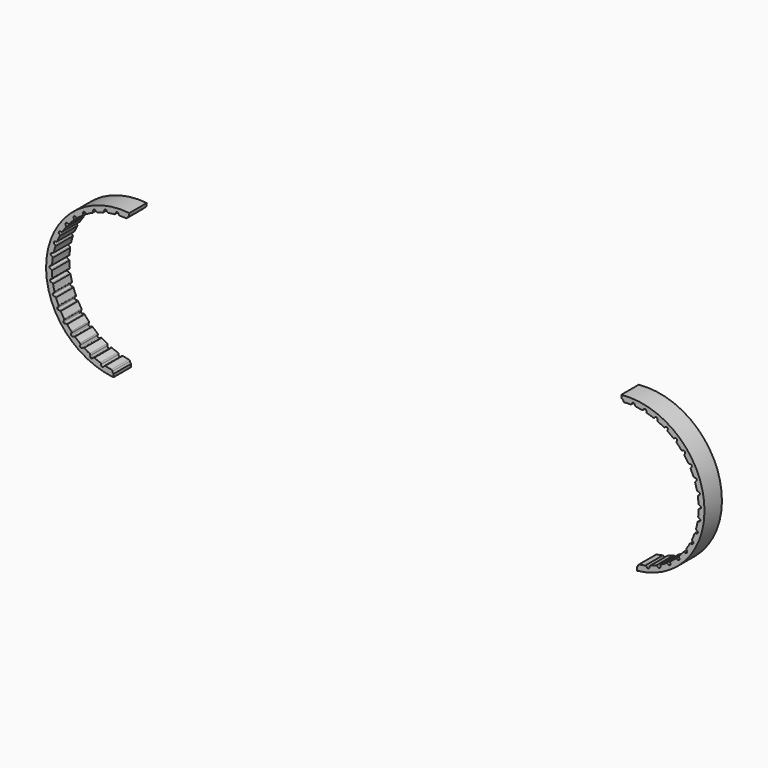
from build123d import *

# Parameters (mm, degrees)
F1_DEPTH = 10


with BuildPart() as f1:
    # F0 (on Front) → F1 (new body)
    with BuildSketch(Plane.XZ):
        with BuildLine():
            ThreePointArc((123.8666904179, -46.6791875117), (122.4197753697, -46.9923041887), (120.9598662199, -47.2378046661))
            ThreePointArc((120.9598662199, -47.2378046661), (120.6772064032, -47.4303391955), (120.5094187302, -47.72835499))
            add(Edge.make_bspline(
                [(119.8886645109, -48.5490103674), (120.447134813, -48.4940550517), (120.5094187302, -47.72835499)],
                knots=[0, 0, 0, 1.3242255138, 1.3242255138, 1.3242255138], degree=2, weights=[1, 0.7886951024, 1]))
            Line((119.8886645109, -48.5490103674), (120.0503584849, -50.0721308867))
            ThreePointArc((120.0503584849, -50.0721308867), (150.7502410499, -12.0928725794), (112.7675707092, 18.602788431))
            Line((112.7675707092, 18.602788431), (112.9292645537, 17.0796691305))
            add(Edge.make_bspline(
                [(112.936897847, 17.0804773879), (112.9330783085, 17.0801015327), (112.9292645537, 17.0796691305)],
                knots=[0, 0, 0, 0.0106622897, 0.0106622897, 0.0106622897], degree=2, weights=[1, 0.9999857895, 1]))
            add(Edge.make_bspline(
                [(113.7347456512, 16.3994171185), (113.5187096042, 17.1377295796), (112.936897847, 17.0804773879)],
                knots=[4.9589597933, 4.9589597933, 4.9589597933, 6.2831853072, 6.2831853072, 6.2831853072], degree=2, weights=[1, 0.7886951024, 1]))
            ThreePointArc((113.7347456512, 16.3994171185), (113.9065411517, 16.1662009275), (114.1539001434, 16.0154792804))
            ThreePointArc((114.1539001434, 16.0154792804), (115.6326184675, 16.0861710645), (117.1130244098, 16.088030087))
            ThreePointArc((117.1130244098, 16.088030087), (117.4235192571, 16.2314144196), (117.6380703124, 16.4977487239))
            add(Edge.make_bspline(
                [(118.3854336888, 17.2050386451), (117.8255348461, 17.2427540388), (117.6380703124, 16.4977487239)],
                knots=[0, 0, 0, 1.3242255138, 1.3242255138, 1.3242255138], degree=2, weights=[1, 0.7886951024, 1]))
            add(Edge.make_bspline(
                [(119.0603010529, 16.4019457176), (118.968733693, 17.1657469238), (118.3854336888, 17.2050386451)],
                knots=[4.9589597933, 4.9589597933, 4.9589597933, 6.2831853072, 6.2831853072, 6.2831853072], degree=2, weights=[1, 0.7886951024, 1]))
            ThreePointArc((119.0603010529, 16.4019457176), (119.1913673634, 16.1436336815), (119.4105447331, 15.9542537293))
            ThreePointArc((119.4105447331, 15.9542537293), (120.8807307518, 15.780592333), (122.3412518717, 15.5387591913))
            ThreePointArc((122.3412518717, 15.5387591913), (122.6711122594, 15.6290821763), (122.9265743037, 15.8564700848))
            add(Edge.make_bspline(
                [(123.7801607126, 16.4311015246), (123.2341059101, 16.5604588501), (122.9265743037, 15.8564700848)],
                knots=[0, 0, 0, 1.3242255138, 1.3242255138, 1.3242255138], degree=2, weights=[1, 0.7886951024, 1]))
            add(Edge.make_bspline(
                [(124.3136390141, 15.5278822206), (124.3490380602, 16.2963376659), (123.7801607126, 16.4311015246)],
                knots=[4.9589597933, 4.9589597933, 4.9589597933, 6.2831853072, 6.2831853072, 6.2831853072], degree=2, weights=[1, 0.7886951024, 1]))
            ThreePointArc((124.3136390141, 15.5278822206), (124.4004009871, 15.2515204184), (124.5854181475, 15.0286479525))
            ThreePointArc((124.5854181475, 15.0286479525), (126.0069690188, 14.6153704058), (127.4077661075, 14.1364416777))
            ThreePointArc((127.4077661075, 14.1364416777), (127.7479943041, 14.1712395396), (128.0373989987, 14.3534785028))
            add(Edge.make_bspline(
                [(128.973924828, 14.7797770135), (128.4566090172, 14.9972477402), (128.0373989987, 14.3534785028)],
                knots=[0, 0, 0, 1.3242255138, 1.3242255138, 1.3242255138], degree=2, weights=[1, 0.7886951024, 1]))
            add(Edge.make_bspline(
                [(129.3514621695, 13.8010688011), (129.5128620279, 14.5532170243), (128.973924828, 14.7797770135)],
                knots=[4.9589597933, 4.9589597933, 4.9589597933, 6.2831853072, 6.2831853072, 6.2831853072], degree=2, weights=[1, 0.7886951024, 1]))
            ThreePointArc((129.3514621695, 13.8010688011), (129.3915531647, 13.5141956623), (129.53736333, 13.2639100626))
            ThreePointArc((129.53736333, 13.2639100626), (130.8715028518, 12.6222894998), (132.1743658161, 11.9193291124))
            ThreePointArc((132.1743658161, 11.9193291124), (132.5156812835, 11.8976526562), (132.8311344227, 12.0297716703))
            add(Edge.make_bspline(
                [(133.825053689, 12.2961089399), (133.3505878969, 12.5957610332), (132.8311344227, 12.0297716703)],
                knots=[0, 0, 0, 1.3242255138, 1.3242255138, 1.3242255138], degree=2, weights=[1, 0.7886951024, 1]))
            add(Edge.make_bspline(
                [(134.0363518361, 11.2686084278), (134.3193499395, 11.983932786), (133.825053689, 12.2961089399)],
                knots=[4.9589597933, 4.9589597933, 4.9589597933, 6.2831853072, 6.2831853072, 6.2831853072], degree=2, weights=[1, 0.7886951024, 1]))
            ThreePointArc((134.0363518361, 11.2686084278), (134.0286782756, 10.9790491037), (134.1313041246, 10.708177509))
            ThreePointArc((134.1313041246, 10.708177509), (135.3416404486, 9.8557156664), (136.5110305833, 8.9478985466))
            ThreePointArc((136.5110305833, 8.9478985466), (136.8441231251, 8.8703390495), (137.1770199697, 8.9487342523))
            add(Edge.make_bspline(
                [(138.2012211465, 9.0478452942), (137.7825475628, 9.4215050263), (137.1770199697, 8.9487342523)],
                knots=[0, 0, 0, 1.3242255138, 1.3242255138, 1.3242255138], degree=2, weights=[1, 0.7886951024, 1]))
            add(Edge.make_bspline(
                [(138.2405164364, 7.9995800179), (138.6373933341, 8.6585683273), (138.2012211465, 9.0478452942)],
                knots=[4.9589597933, 4.9589597933, 4.9589597933, 6.2831853072, 6.2831853072, 6.2831853072], degree=2, weights=[1, 0.7886951024, 1]))
            ThreePointArc((138.2405164364, 7.9995800179), (138.185287635, 7.7152329321), (138.241929802, 7.4311640134))
            ThreePointArc((138.241929802, 7.4311640134), (139.2954481083, 6.3911138279), (140.2994674989, 5.3032028602))
            ThreePointArc((140.2994674989, 5.3032028602), (140.615251219, 5.1718759432), (140.9565112108, 5.1944089178))
            add(Edge.make_bspline(
                [(141.9830567598, 5.1235902413), (141.6315957086, 5.5610651485), (140.9565112108, 5.1944089178)],
                knots=[0, 0, 0, 1.3242255138, 1.3242255138, 1.3242255138], degree=2, weights=[1, 0.7886951024, 1]))
            add(Edge.make_bspline(
                [(141.8492773195, 4.0831541449), (142.3492072445, 4.6678309223), (141.9830567598, 5.1235902413)],
                knots=[4.9589597933, 4.9589597933, 4.9589597933, 6.2831853072, 6.2831853072, 6.2831853072], degree=2, weights=[1, 0.7886951024, 1]))
            ThreePointArc((141.8492773195, 4.0831541449), (141.7479997749, 3.8117755447), (141.7571132093, 3.5222579614))
            ThreePointArc((141.7571132093, 3.5222579614), (142.6250762649, 2.3229892908), (143.4363378797, 1.0846598506))
            ThreePointArc((143.4363378797, 1.0846598506), (143.7261990213, 0.9031477695), (144.0665134774, 0.8692038752))
            add(Edge.make_bspline(
                [(145.067401912, 0.630387229), (144.7927403346, 1.1197441365), (144.0665134774, 0.8692038752)],
                knots=[0, 0, 0, 1.3242255138, 1.3242255138, 1.3242255138], degree=2, weights=[1, 0.7886951024, 1]))
            add(Edge.make_bspline(
                [(144.764196896, -0.3738393029), (145.353543063, 0.1205774841), (145.067401912, 0.6303872291)],
                knots=[4.9589597933, 4.9589597933, 4.9589597933, 6.2831853072, 6.2831853072, 6.2831853072], degree=2, weights=[1, 0.7886951024, 1]))
            ThreePointArc((144.764196896, -0.3738393029), (144.6196331955, -0.6248469168), (144.5809693065, -0.9119158796))
            ThreePointArc((144.5809693065, -0.9119158796), (145.2397013419, -2.2376901121), (145.8360760788, -3.5926596259))
            ThreePointArc((145.8360760788, -3.5926596259), (146.0921079856, -3.8194056947), (146.4221940147, -3.908900557))
            add(Edge.make_bspline(
                [(147.3701237077, -4.3092008771), (147.1797536558, -3.7813103503), (146.4221940147, -3.908900557)],
                knots=[0, 0, 0, 1.3242255138, 1.3242255138, 1.3242255138], degree=2, weights=[1, 0.7886951024, 1]))
            add(Edge.make_bspline(
                [(146.9057637582, -5.2498251628), (147.5684503402, -4.8591547671), (147.3701237077, -4.3092008771)],
                knots=[4.9589597933, 4.9589597933, 4.9589597933, 6.2831853072, 6.2831853072, 6.2831853072], degree=2, weights=[1, 0.7886951024, 1]))
            ThreePointArc((146.9057637582, -5.2498251628), (146.7218572229, -5.4736149569), (146.6364706606, -5.7504048062))
            ThreePointArc((146.6364706606, -5.7504048062), (147.0680031831, -7.1665209357), (147.4332234939, -8.6011704869))
            ThreePointArc((147.4332234939, -8.6011704869), (147.6484422829, -8.8669655016), (147.9592959986, -9.0095701454))
            add(Edge.make_bspline(
                [(148.8284098989, -9.5604349903), (148.7275241714, -9.0084103215), (147.9592959986, -9.0095701454)],
                knots=[0, 0, 0, 1.3242255138, 1.3242255138, 1.3242255138], degree=2, weights=[1, 0.7886951024, 1]))
            add(Edge.make_bspline(
                [(148.215561545, -10.4117992511), (148.9335121794, -10.1355317169), (148.8284098989, -9.5604349903)],
                knots=[4.9589597933, 4.9589597933, 4.9589597933, 6.2831853072, 6.2831853072, 6.2831853072], degree=2, weights=[1, 0.7886951024, 1]))
            ThreePointArc((148.215561545, -10.4117992511), (147.9973286656, -10.6022668233), (147.8675485529, -10.8612274536))
            ThreePointArc((147.8675485529, -10.8612274536), (148.0601104801, -12.3290575236), (148.1842141069, -13.8042536123))
            ThreePointArc((148.1842141069, -13.8042536123), (148.3527491706, -14.1018473778), (148.6358912939, -14.29367192))
            add(Edge.make_bspline(
                [(149.4024822399, -14.9800751328), (149.3938327364, -14.418974116), (148.6358912939, -14.29367192)],
                knots=[0, 0, 0, 1.3242255138, 1.3242255138, 1.3242255138], degree=2, weights=[1, 0.7886951024, 1]))
            add(Edge.make_bspline(
                [(148.6578623871, -15.7189563711), (149.4114932522, -15.5646275564), (149.4024822399, -14.9800751328)],
                knots=[4.9589597933, 4.9589597933, 4.9589597933, 6.2831853072, 6.2831853072, 6.2831853072], degree=2, weights=[1, 0.7886951024, 1]))
            ThreePointArc((148.6578623871, -15.7189563711), (148.4112559877, -15.8709062624), (148.2406223878, -16.1049739028))
            ThreePointArc((148.2406223878, -16.1049739028), (148.1889611323, -17.5844793353), (148.0685628515, -19.0599824577))
            ThreePointArc((148.0685628515, -19.0599824577), (148.1858169927, -19.3812573919), (148.4335241445, -19.6170693592))
            add(Edge.make_bspline(
                [(149.0766815336, -20.4202876495), (149.1605041901, -19.8654156578), (148.4335241445, -19.6170693592)],
                knots=[0, 0, 0, 1.3242255138, 1.3242255138, 1.3242255138], degree=2, weights=[1, 0.7886951024, 1]))
            add(Edge.make_bspline(
                [(148.2206014705, -21.0265311111), (148.9893554809, -20.9983507039), (149.0766815336, -20.4202876495)],
                knots=[4.9589597933, 4.9589597933, 4.9589597933, 6.2831853072, 6.2831853072, 6.2831853072], degree=2, weights=[1, 0.7886951024, 1]))
            ThreePointArc((148.2206014705, -21.0265311111), (147.9523483308, -21.1358185248), (147.7455156834, -21.3386084202))
            ThreePointArc((147.7455156834, -21.3386084202), (147.4510404296, -22.7894321638), (147.0894243926, -24.2249944411))
            ThreePointArc((147.0894243926, -24.2249944411), (147.152199224, -24.5611870013), (147.357714599, -24.8345540578))
            add(Edge.make_bspline(
                [(147.8598947742, -25.7326777246), (148.033903127, -25.1991702193), (147.357714599, -24.8345540578)],
                knots=[0, 0, 0, 1.3242255138, 1.3242255138, 1.3242255138], degree=2, weights=[1, 0.7886951024, 1]))
            add(Edge.make_bspline(
                [(146.9157061331, -26.1897466683), (147.6786136834, -26.2884833564), (147.8598947742, -25.7326777246)],
                knots=[4.9589597933, 4.9589597933, 4.9589597933, 6.2831853072, 6.2831853072, 6.2831853072], degree=2, weights=[1, 0.7886951024, 1]))
            ThreePointArc((146.9157061331, -26.1897466683), (146.6331234995, -26.2533905284), (146.3957336601, -26.4193710991))
            ThreePointArc((146.3957336601, -26.4193710991), (145.8664769253, -27.8019384641), (145.2735070748, -29.1584014996))
            ThreePointArc((145.2735070748, -29.1584014996), (145.2800902626, -29.5003412291), (145.4378079371, -29.8038066343))
            add(Edge.make_bspline(
                [(145.7853127323, -30.772337205), (146.0447602873, -30.2747468803), (145.4378079371, -29.8038066343)],
                knots=[0, 0, 0, 1.3242255138, 1.3242255138, 1.3242255138], degree=2, weights=[1, 0.7886951024, 1]))
            add(Edge.make_bspline(
                [(144.7787705181, -31.0677639815), (145.5150214791, -31.2907244856), (145.7853127323, -30.772337205)],
                knots=[4.9589597933, 4.9589597933, 4.9589597933, 6.2831853072, 6.2831853072, 6.2831853072], degree=2, weights=[1, 0.7886951024, 1]))
            ThreePointArc((144.7787705181, -31.0677639815), (144.4895665083, -31.0840282496), (144.2280948529, -31.2086719782))
            ThreePointArc((144.2280948529, -31.2086719782), (143.4784933811, -32.485270131), (142.6703443889, -33.7256331491))
            ThreePointArc((142.6703443889, -33.7256331491), (142.6205563609, -34.0639928235), (142.7261742079, -34.3892788321))
            add(Edge.make_bspline(
                [(142.9095245982, -35.4017973176), (143.2473343023, -34.9536971404), (142.7261742079, -34.3892788321)],
                knots=[0, 0, 0, 1.3242255138, 1.3242255138, 1.3242255138], degree=2, weights=[1, 0.7886951024, 1]))
            add(Edge.make_bspline(
                [(141.8680846586, -35.5275234546), (142.5575960233, -35.8686259933), (142.9095245982, -35.4017973176)],
                knots=[4.9589597933, 4.9589597933, 4.9589597933, 6.2831853072, 6.2831853072, 6.2831853072], degree=2, weights=[1, 0.7886951024, 1]))
            ThreePointArc((141.8680846586, -35.5275234546), (141.580148004, -35.4959644838), (141.3017267977, -35.5758714145))
            ThreePointArc((141.3017267977, -35.5758714145), (140.352227763, -36.7116780852), (139.350943827, -37.8021072162))
            ThreePointArc((139.350943827, -37.8021072162), (139.2461426709, -38.1276572656), (139.2967797108, -38.4658909233))
            add(Edge.make_bspline(
                [(139.3109743754, -39.4947784587), (139.7179316605, -39.1083914337), (139.2967797108, -38.4658909233)],
                knots=[0, 0, 0, 1.3242255138, 1.3242255138, 1.3242255138], degree=2, weights=[1, 0.7886951024, 1]))
            add(Edge.make_bspline(
                [(138.2630444772, -39.4473744749), (138.887008173, -39.8973146601), (139.3109743754, -39.4947784587)],
                knots=[4.9589597933, 4.9589597933, 4.9589597933, 6.2831853072, 6.2831853072, 6.2831853072], degree=2, weights=[1, 0.7886951024, 1]))
            ThreePointArc((138.2630444772, -39.4473744749), (137.9842293391, -39.3688531116), (137.6964531867, -39.4018435915))
            ThreePointArc((137.6964531867, -39.4018435915), (136.5729564477, -40.3658769352), (135.4058499834, -41.2766281149))
            ThreePointArc((135.4058499834, -41.2766281149), (135.2488944014, -41.5804883825), (135.2431693878, -41.9224435568))
            add(Edge.make_bspline(
                [(135.0878211334, -42.9396347723), (135.5528252657, -42.6255005303), (135.2431693878, -41.9224435568)],
                knots=[0, 0, 0, 1.3242255138, 1.3242255138, 1.3242255138], degree=2, weights=[1, 0.7886951024, 1]))
            add(Edge.make_bspline(
                [(134.0619860724, -42.7203937248), (134.6033819962, -43.2668983612), (135.0878211334, -42.9396347723)],
                knots=[4.9589597933, 4.9589597933, 4.9589597933, 6.2831853072, 6.2831853072, 6.2831853072], degree=2, weights=[1, 0.7886951024, 1]))
            ThreePointArc((134.0619860724, -42.7203937248), (133.799897801, -42.5970518272), (133.5106164857, -42.582225962))
            ThreePointArc((133.5106164857, -42.582225962), (132.2437681046, -43.3481896619), (130.9426747341, -44.0544199723))
            ThreePointArc((130.9426747341, -44.0544199723), (130.7378460654, -44.3283019423), (130.6759151617, -44.6646509874))
            add(Edge.make_bspline(
                [(130.3552614836, -45.6423995583), (130.8656283624, -45.4090868625), (130.6759151617, -44.6646509874)],
                knots=[0, 0, 0, 1.3242255138, 1.3242255138, 1.3242255138], degree=2, weights=[1, 0.7886951024, 1]))
            add(Edge.make_bspline(
                [(129.3795033662, -45.2573017714), (129.8235636485, -45.8854636371), (130.3552614836, -45.6423995583)],
                knots=[4.9589597933, 4.9589597933, 4.9589597933, 6.2831853072, 6.2831853072, 6.2831853072], degree=2, weights=[1, 0.7886951024, 1]))
            ThreePointArc((129.3795033662, -45.2573017714), (129.1412910463, -45.0925037848), (128.8583954082, -45.0302659855))
            ThreePointArc((128.8583954082, -45.0302659855), (127.4827517065, -45.5772665487), (126.0831618651, -46.0597118679))
            ThreePointArc((126.0831618651, -46.0597118679), (125.8360473019, -46.296144754), (125.7195998217, -46.6177129448))
            add(Edge.make_bspline(
                [(125.2423873165, -47.5293484388), (125.7841954638, -47.3832214514), (125.7195998217, -46.6177129448)],
                knots=[0, 0, 0, 1.3242255138, 1.3242255138, 1.3242255138], degree=2, weights=[1, 0.7886951024, 1]))
            add(Edge.make_bspline(
                [(124.3433222804, -46.9888983762), (124.6779341143, -47.6815828531), (125.2423873165, -47.5293484388)],
                knots=[4.9589597933, 4.9589597933, 4.9589597933, 6.2831853072, 6.2831853072, 6.2831853072], degree=2, weights=[1, 0.7886951024, 1]))
            ThreePointArc((124.3433222804, -46.9888983762), (124.1354837232, -46.7871395602), (123.8666904179, -46.6791875117))
        make_face()
        with BuildLine():
            ThreePointArc((123.8666904179, -46.6791875117), (122.4197753697, -46.9923041887), (120.9598662199, -47.2378046661))
            ThreePointArc((120.9598662199, -47.2378046661), (120.6772064032, -47.4303391955), (120.5094187302, -47.72835499))
            add(Edge.make_bspline(
                [(119.8886645109, -48.5490103674), (120.447134813, -48.4940550517), (120.5094187302, -47.72835499)],
                knots=[0, 0, 0, 1.3242255138, 1.3242255138, 1.3242255138], degree=2, weights=[1, 0.7886951024, 1]))
            Line((119.8886645109, -48.5490103674), (120.0503584849, -50.0721308867))
            ThreePointArc((120.0503584849, -50.0721308867), (150.7502410499, -12.0928725794), (112.7675707092, 18.602788431))
            Line((112.7675707092, 18.602788431), (112.9292645537, 17.0796691305))
            add(Edge.make_bspline(
                [(112.936897847, 17.0804773879), (112.9330783085, 17.0801015327), (112.9292645537, 17.0796691305)],
                knots=[0, 0, 0, 0.0106622897, 0.0106622897, 0.0106622897], degree=2, weights=[1, 0.9999857895, 1]))
            add(Edge.make_bspline(
                [(113.7347456512, 16.3994171185), (113.5187096042, 17.1377295796), (112.936897847, 17.0804773879)],
                knots=[4.9589597933, 4.9589597933, 4.9589597933, 6.2831853072, 6.2831853072, 6.2831853072], degree=2, weights=[1, 0.7886951024, 1]))
            ThreePointArc((113.7347456512, 16.3994171185), (113.9065411517, 16.1662009275), (114.1539001434, 16.0154792804))
            ThreePointArc((114.1539001434, 16.0154792804), (115.6326184675, 16.0861710645), (117.1130244098, 16.088030087))
            ThreePointArc((117.1130244098, 16.088030087), (117.4235192571, 16.2314144196), (117.6380703124, 16.4977487239))
            add(Edge.make_bspline(
                [(118.3854336888, 17.2050386451), (117.8255348461, 17.2427540388), (117.6380703124, 16.4977487239)],
                knots=[0, 0, 0, 1.3242255138, 1.3242255138, 1.3242255138], degree=2, weights=[1, 0.7886951024, 1]))
            add(Edge.make_bspline(
                [(119.0603010529, 16.4019457176), (118.968733693, 17.1657469238), (118.3854336888, 17.2050386451)],
                knots=[4.9589597933, 4.9589597933, 4.9589597933, 6.2831853072, 6.2831853072, 6.2831853072], degree=2, weights=[1, 0.7886951024, 1]))
            ThreePointArc((119.0603010529, 16.4019457176), (119.1913673634, 16.1436336815), (119.4105447331, 15.9542537293))
            ThreePointArc((119.4105447331, 15.9542537293), (120.8807307518, 15.780592333), (122.3412518717, 15.5387591913))
            ThreePointArc((122.3412518717, 15.5387591913), (122.6711122594, 15.6290821763), (122.9265743037, 15.8564700848))
            add(Edge.make_bspline(
                [(123.7801607126, 16.4311015246), (123.2341059101, 16.5604588501), (122.9265743037, 15.8564700848)],
                knots=[0, 0, 0, 1.3242255138, 1.3242255138, 1.3242255138], degree=2, weights=[1, 0.7886951024, 1]))
            add(Edge.make_bspline(
                [(124.3136390141, 15.5278822206), (124.3490380602, 16.2963376659), (123.7801607126, 16.4311015246)],
                knots=[4.9589597933, 4.9589597933, 4.9589597933, 6.2831853072, 6.2831853072, 6.2831853072], degree=2, weights=[1, 0.7886951024, 1]))
            ThreePointArc((124.3136390141, 15.5278822206), (124.4004009871, 15.2515204184), (124.5854181475, 15.0286479525))
            ThreePointArc((124.5854181475, 15.0286479525), (126.0069690188, 14.6153704058), (127.4077661075, 14.1364416777))
            ThreePointArc((127.4077661075, 14.1364416777), (127.7479943041, 14.1712395396), (128.0373989987, 14.3534785028))
            add(Edge.make_bspline(
                [(128.973924828, 14.7797770135), (128.4566090172, 14.9972477402), (128.0373989987, 14.3534785028)],
                knots=[0, 0, 0, 1.3242255138, 1.3242255138, 1.3242255138], degree=2, weights=[1, 0.7886951024, 1]))
            add(Edge.make_bspline(
                [(129.3514621695, 13.8010688011), (129.5128620279, 14.5532170243), (128.973924828, 14.7797770135)],
                knots=[4.9589597933, 4.9589597933, 4.9589597933, 6.2831853072, 6.2831853072, 6.2831853072], degree=2, weights=[1, 0.7886951024, 1]))
            ThreePointArc((129.3514621695, 13.8010688011), (129.3915531647, 13.5141956623), (129.53736333, 13.2639100626))
            ThreePointArc((129.53736333, 13.2639100626), (130.8715028518, 12.6222894998), (132.1743658161, 11.9193291124))
            ThreePointArc((132.1743658161, 11.9193291124), (132.5156812835, 11.8976526562), (132.8311344227, 12.0297716703))
            add(Edge.make_bspline(
                [(133.825053689, 12.2961089399), (133.3505878969, 12.5957610332), (132.8311344227, 12.0297716703)],
                knots=[0, 0, 0, 1.3242255138, 1.3242255138, 1.3242255138], degree=2, weights=[1, 0.7886951024, 1]))
            add(Edge.make_bspline(
                [(134.0363518361, 11.2686084278), (134.3193499395, 11.983932786), (133.825053689, 12.2961089399)],
                knots=[4.9589597933, 4.9589597933, 4.9589597933, 6.2831853072, 6.2831853072, 6.2831853072], degree=2, weights=[1, 0.7886951024, 1]))
            ThreePointArc((134.0363518361, 11.2686084278), (134.0286782756, 10.9790491037), (134.1313041246, 10.708177509))
            ThreePointArc((134.1313041246, 10.708177509), (135.3416404486, 9.8557156664), (136.5110305833, 8.9478985466))
            ThreePointArc((136.5110305833, 8.9478985466), (136.8441231251, 8.8703390495), (137.1770199697, 8.9487342523))
            add(Edge.make_bspline(
                [(138.2012211465, 9.0478452942), (137.7825475628, 9.4215050263), (137.1770199697, 8.9487342523)],
                knots=[0, 0, 0, 1.3242255138, 1.3242255138, 1.3242255138], degree=2, weights=[1, 0.7886951024, 1]))
            add(Edge.make_bspline(
                [(138.2405164364, 7.9995800179), (138.6373933341, 8.6585683273), (138.2012211465, 9.0478452942)],
                knots=[4.9589597933, 4.9589597933, 4.9589597933, 6.2831853072, 6.2831853072, 6.2831853072], degree=2, weights=[1, 0.7886951024, 1]))
            ThreePointArc((138.2405164364, 7.9995800179), (138.185287635, 7.7152329321), (138.241929802, 7.4311640134))
            ThreePointArc((138.241929802, 7.4311640134), (139.2954481083, 6.3911138279), (140.2994674989, 5.3032028602))
            ThreePointArc((140.2994674989, 5.3032028602), (140.615251219, 5.1718759432), (140.9565112108, 5.1944089178))
            add(Edge.make_bspline(
                [(141.9830567598, 5.1235902413), (141.6315957086, 5.5610651485), (140.9565112108, 5.1944089178)],
                knots=[0, 0, 0, 1.3242255138, 1.3242255138, 1.3242255138], degree=2, weights=[1, 0.7886951024, 1]))
            add(Edge.make_bspline(
                [(141.8492773195, 4.0831541449), (142.3492072445, 4.6678309223), (141.9830567598, 5.1235902413)],
                knots=[4.9589597933, 4.9589597933, 4.9589597933, 6.2831853072, 6.2831853072, 6.2831853072], degree=2, weights=[1, 0.7886951024, 1]))
            ThreePointArc((141.8492773195, 4.0831541449), (141.7479997749, 3.8117755447), (141.7571132093, 3.5222579614))
            ThreePointArc((141.7571132093, 3.5222579614), (142.6250762649, 2.3229892908), (143.4363378797, 1.0846598506))
            ThreePointArc((143.4363378797, 1.0846598506), (143.7261990213, 0.9031477695), (144.0665134774, 0.8692038752))
            add(Edge.make_bspline(
                [(145.067401912, 0.630387229), (144.7927403346, 1.1197441365), (144.0665134774, 0.8692038752)],
                knots=[0, 0, 0, 1.3242255138, 1.3242255138, 1.3242255138], degree=2, weights=[1, 0.7886951024, 1]))
            add(Edge.make_bspline(
                [(144.764196896, -0.3738393029), (145.353543063, 0.1205774841), (145.067401912, 0.6303872291)],
                knots=[4.9589597933, 4.9589597933, 4.9589597933, 6.2831853072, 6.2831853072, 6.2831853072], degree=2, weights=[1, 0.7886951024, 1]))
            ThreePointArc((144.764196896, -0.3738393029), (144.6196331955, -0.6248469168), (144.5809693065, -0.9119158796))
            ThreePointArc((144.5809693065, -0.9119158796), (145.2397013419, -2.2376901121), (145.8360760788, -3.5926596259))
            ThreePointArc((145.8360760788, -3.5926596259), (146.0921079856, -3.8194056947), (146.4221940147, -3.908900557))
            add(Edge.make_bspline(
                [(147.3701237077, -4.3092008771), (147.1797536558, -3.7813103503), (146.4221940147, -3.908900557)],
                knots=[0, 0, 0, 1.3242255138, 1.3242255138, 1.3242255138], degree=2, weights=[1, 0.7886951024, 1]))
            add(Edge.make_bspline(
                [(146.9057637582, -5.2498251628), (147.5684503402, -4.8591547671), (147.3701237077, -4.3092008771)],
                knots=[4.9589597933, 4.9589597933, 4.9589597933, 6.2831853072, 6.2831853072, 6.2831853072], degree=2, weights=[1, 0.7886951024, 1]))
            ThreePointArc((146.9057637582, -5.2498251628), (146.7218572229, -5.4736149569), (146.6364706606, -5.7504048062))
            ThreePointArc((146.6364706606, -5.7504048062), (147.0680031831, -7.1665209357), (147.4332234939, -8.6011704869))
            ThreePointArc((147.4332234939, -8.6011704869), (147.6484422829, -8.8669655016), (147.9592959986, -9.0095701454))
            add(Edge.make_bspline(
                [(148.8284098989, -9.5604349903), (148.7275241714, -9.0084103215), (147.9592959986, -9.0095701454)],
                knots=[0, 0, 0, 1.3242255138, 1.3242255138, 1.3242255138], degree=2, weights=[1, 0.7886951024, 1]))
            add(Edge.make_bspline(
                [(148.215561545, -10.4117992511), (148.9335121794, -10.1355317169), (148.8284098989, -9.5604349903)],
                knots=[4.9589597933, 4.9589597933, 4.9589597933, 6.2831853072, 6.2831853072, 6.2831853072], degree=2, weights=[1, 0.7886951024, 1]))
            ThreePointArc((148.215561545, -10.4117992511), (147.9973286656, -10.6022668233), (147.8675485529, -10.8612274536))
            ThreePointArc((147.8675485529, -10.8612274536), (148.0601104801, -12.3290575236), (148.1842141069, -13.8042536123))
            ThreePointArc((148.1842141069, -13.8042536123), (148.3527491706, -14.1018473778), (148.6358912939, -14.29367192))
            add(Edge.make_bspline(
                [(149.4024822399, -14.9800751328), (149.3938327364, -14.418974116), (148.6358912939, -14.29367192)],
                knots=[0, 0, 0, 1.3242255138, 1.3242255138, 1.3242255138], degree=2, weights=[1, 0.7886951024, 1]))
            add(Edge.make_bspline(
                [(148.6578623871, -15.7189563711), (149.4114932522, -15.5646275564), (149.4024822399, -14.9800751328)],
                knots=[4.9589597933, 4.9589597933, 4.9589597933, 6.2831853072, 6.2831853072, 6.2831853072], degree=2, weights=[1, 0.7886951024, 1]))
            ThreePointArc((148.6578623871, -15.7189563711), (148.4112559877, -15.8709062624), (148.2406223878, -16.1049739028))
            ThreePointArc((148.2406223878, -16.1049739028), (148.1889611323, -17.5844793353), (148.0685628515, -19.0599824577))
            ThreePointArc((148.0685628515, -19.0599824577), (148.1858169927, -19.3812573919), (148.4335241445, -19.6170693592))
            add(Edge.make_bspline(
                [(149.0766815336, -20.4202876495), (149.1605041901, -19.8654156578), (148.4335241445, -19.6170693592)],
                knots=[0, 0, 0, 1.3242255138, 1.3242255138, 1.3242255138], degree=2, weights=[1, 0.7886951024, 1]))
            add(Edge.make_bspline(
                [(148.2206014705, -21.0265311111), (148.9893554809, -20.9983507039), (149.0766815336, -20.4202876495)],
                knots=[4.9589597933, 4.9589597933, 4.9589597933, 6.2831853072, 6.2831853072, 6.2831853072], degree=2, weights=[1, 0.7886951024, 1]))
            ThreePointArc((148.2206014705, -21.0265311111), (147.9523483308, -21.1358185248), (147.7455156834, -21.3386084202))
            ThreePointArc((147.7455156834, -21.3386084202), (147.4510404296, -22.7894321638), (147.0894243926, -24.2249944411))
            ThreePointArc((147.0894243926, -24.2249944411), (147.152199224, -24.5611870013), (147.357714599, -24.8345540578))
            add(Edge.make_bspline(
                [(147.8598947742, -25.7326777246), (148.033903127, -25.1991702193), (147.357714599, -24.8345540578)],
                knots=[0, 0, 0, 1.3242255138, 1.3242255138, 1.3242255138], degree=2, weights=[1, 0.7886951024, 1]))
            add(Edge.make_bspline(
                [(146.9157061331, -26.1897466683), (147.6786136834, -26.2884833564), (147.8598947742, -25.7326777246)],
                knots=[4.9589597933, 4.9589597933, 4.9589597933, 6.2831853072, 6.2831853072, 6.2831853072], degree=2, weights=[1, 0.7886951024, 1]))
            ThreePointArc((146.9157061331, -26.1897466683), (146.6331234995, -26.2533905284), (146.3957336601, -26.4193710991))
            ThreePointArc((146.3957336601, -26.4193710991), (145.8664769253, -27.8019384641), (145.2735070748, -29.1584014996))
            ThreePointArc((145.2735070748, -29.1584014996), (145.2800902626, -29.5003412291), (145.4378079371, -29.8038066343))
            add(Edge.make_bspline(
                [(145.7853127323, -30.772337205), (146.0447602873, -30.2747468803), (145.4378079371, -29.8038066343)],
                knots=[0, 0, 0, 1.3242255138, 1.3242255138, 1.3242255138], degree=2, weights=[1, 0.7886951024, 1]))
            add(Edge.make_bspline(
                [(144.7787705181, -31.0677639815), (145.5150214791, -31.2907244856), (145.7853127323, -30.772337205)],
                knots=[4.9589597933, 4.9589597933, 4.9589597933, 6.2831853072, 6.2831853072, 6.2831853072], degree=2, weights=[1, 0.7886951024, 1]))
            ThreePointArc((144.7787705181, -31.0677639815), (144.4895665083, -31.0840282496), (144.2280948529, -31.2086719782))
            ThreePointArc((144.2280948529, -31.2086719782), (143.4784933811, -32.485270131), (142.6703443889, -33.7256331491))
            ThreePointArc((142.6703443889, -33.7256331491), (142.6205563609, -34.0639928235), (142.7261742079, -34.3892788321))
            add(Edge.make_bspline(
                [(142.9095245982, -35.4017973176), (143.2473343023, -34.9536971404), (142.7261742079, -34.3892788321)],
                knots=[0, 0, 0, 1.3242255138, 1.3242255138, 1.3242255138], degree=2, weights=[1, 0.7886951024, 1]))
            add(Edge.make_bspline(
                [(141.8680846586, -35.5275234546), (142.5575960233, -35.8686259933), (142.9095245982, -35.4017973176)],
                knots=[4.9589597933, 4.9589597933, 4.9589597933, 6.2831853072, 6.2831853072, 6.2831853072], degree=2, weights=[1, 0.7886951024, 1]))
            ThreePointArc((141.8680846586, -35.5275234546), (141.580148004, -35.4959644838), (141.3017267977, -35.5758714145))
            ThreePointArc((141.3017267977, -35.5758714145), (140.352227763, -36.7116780852), (139.350943827, -37.8021072162))
            ThreePointArc((139.350943827, -37.8021072162), (139.2461426709, -38.1276572656), (139.2967797108, -38.4658909233))
            add(Edge.make_bspline(
                [(139.3109743754, -39.4947784587), (139.7179316605, -39.1083914337), (139.2967797108, -38.4658909233)],
                knots=[0, 0, 0, 1.3242255138, 1.3242255138, 1.3242255138], degree=2, weights=[1, 0.7886951024, 1]))
            add(Edge.make_bspline(
                [(138.2630444772, -39.4473744749), (138.887008173, -39.8973146601), (139.3109743754, -39.4947784587)],
                knots=[4.9589597933, 4.9589597933, 4.9589597933, 6.2831853072, 6.2831853072, 6.2831853072], degree=2, weights=[1, 0.7886951024, 1]))
            ThreePointArc((138.2630444772, -39.4473744749), (137.9842293391, -39.3688531116), (137.6964531867, -39.4018435915))
            ThreePointArc((137.6964531867, -39.4018435915), (136.5729564477, -40.3658769352), (135.4058499834, -41.2766281149))
            ThreePointArc((135.4058499834, -41.2766281149), (135.2488944014, -41.5804883825), (135.2431693878, -41.9224435568))
            add(Edge.make_bspline(
                [(135.0878211334, -42.9396347723), (135.5528252657, -42.6255005303), (135.2431693878, -41.9224435568)],
                knots=[0, 0, 0, 1.3242255138, 1.3242255138, 1.3242255138], degree=2, weights=[1, 0.7886951024, 1]))
            add(Edge.make_bspline(
                [(134.0619860724, -42.7203937248), (134.6033819962, -43.2668983612), (135.0878211334, -42.9396347723)],
                knots=[4.9589597933, 4.9589597933, 4.9589597933, 6.2831853072, 6.2831853072, 6.2831853072], degree=2, weights=[1, 0.7886951024, 1]))
            ThreePointArc((134.0619860724, -42.7203937248), (133.799897801, -42.5970518272), (133.5106164857, -42.582225962))
            ThreePointArc((133.5106164857, -42.582225962), (132.2437681046, -43.3481896619), (130.9426747341, -44.0544199723))
            ThreePointArc((130.9426747341, -44.0544199723), (130.7378460654, -44.3283019423), (130.6759151617, -44.6646509874))
            add(Edge.make_bspline(
                [(130.3552614836, -45.6423995583), (130.8656283624, -45.4090868625), (130.6759151617, -44.6646509874)],
                knots=[0, 0, 0, 1.3242255138, 1.3242255138, 1.3242255138], degree=2, weights=[1, 0.7886951024, 1]))
            add(Edge.make_bspline(
                [(129.3795033662, -45.2573017714), (129.8235636485, -45.8854636371), (130.3552614836, -45.6423995583)],
                knots=[4.9589597933, 4.9589597933, 4.9589597933, 6.2831853072, 6.2831853072, 6.2831853072], degree=2, weights=[1, 0.7886951024, 1]))
            ThreePointArc((129.3795033662, -45.2573017714), (129.1412910463, -45.0925037848), (128.8583954082, -45.0302659855))
            ThreePointArc((128.8583954082, -45.0302659855), (127.4827517065, -45.5772665487), (126.0831618651, -46.0597118679))
            ThreePointArc((126.0831618651, -46.0597118679), (125.8360473019, -46.296144754), (125.7195998217, -46.6177129448))
            add(Edge.make_bspline(
                [(125.2423873165, -47.5293484388), (125.7841954638, -47.3832214514), (125.7195998217, -46.6177129448)],
                knots=[0, 0, 0, 1.3242255138, 1.3242255138, 1.3242255138], degree=2, weights=[1, 0.7886951024, 1]))
            add(Edge.make_bspline(
                [(124.3433222804, -46.9888983762), (124.6779341143, -47.6815828531), (125.2423873165, -47.5293484388)],
                knots=[4.9589597933, 4.9589597933, 4.9589597933, 6.2831853072, 6.2831853072, 6.2831853072], degree=2, weights=[1, 0.7886951024, 1]))
            ThreePointArc((124.3433222804, -46.9888983762), (124.1354837232, -46.7871395602), (123.8666904179, -46.6791875117))
        make_face()
    extrude(amount=-F1_DEPTH)


with BuildPart() as f2_1:
    # F2: instance of F1
    add(f1.part.mirror(Plane.YZ))


solid = Compound([f1.part, f2_1.part])
